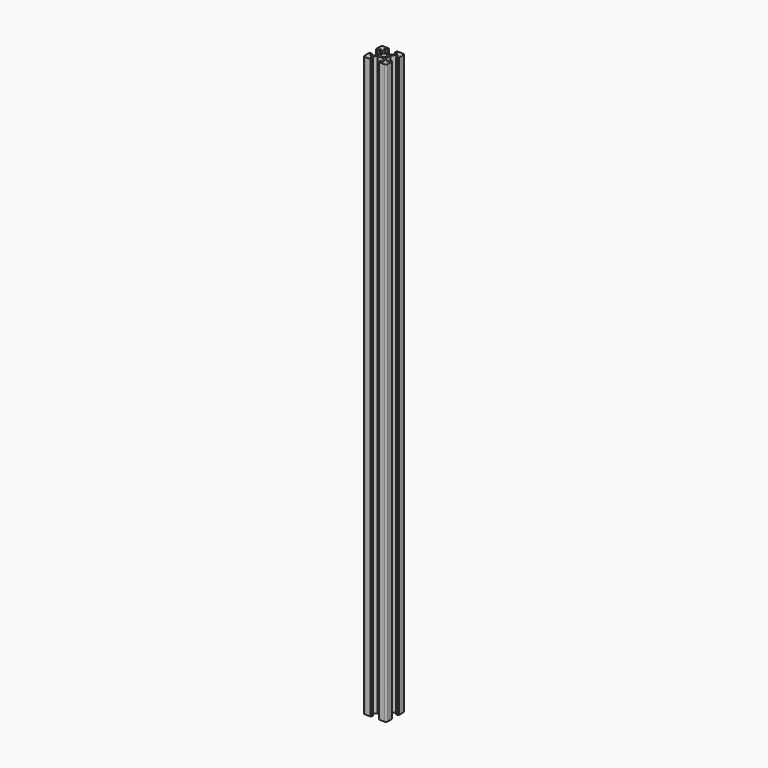
from build123d import *

# Parameters (mm, degrees)
SKETCH_R  = 2.5
PAD_DEPTH = 500
FILLET_R  = 1.5


with BuildPart() as part:
    # Sketch → Pad (new body)
    with BuildSketch(Plane.XY):
        Polygon((-3.6, 2.53934), (-3.6, -2.53934), (-6.56066, -5.5), (-7.9, -5.5), (-7.9, -3.1), (-9.5, -3.1), (-10, -3.6), (-10, -10), (-3.6, -10), (-3.1, -9.5), (-3.1, -7.9), (-5.5, -7.9), (-5.5, -6.56066), (-2.53934, -3.6), (2.53934, -3.6), (5.5, -6.56066), (5.5, -7.9), (3.1, -7.9), (3.1, -9.5), (3.6, -10), (10, -10), (10, -3.6), (9.5, -3.1), (7.9, -3.1), (7.9, -5.5), (6.56066, -5.5), (3.6, -2.53934), (3.6, 2.53934), (6.56066, 5.5), (7.899992, 5.5), (7.899998, 3.1), (9.5, 3.1), (10, 3.6), (10, 10), (3.6, 10), (3.1, 9.5), (3.1, 7.9), (5.5, 7.9), (5.5, 6.56066), (2.53934, 3.6), (-2.53934, 3.6), (-5.5, 6.56066), (-5.5, 7.9), (-3.1, 7.9), (-3.1, 9.5), (-3.6, 10), (-10, 10), (-10, 3.6), (-9.5, 3.1), (-7.9, 3.1), (-7.9, 5.5), (-6.56066, 5.5), align=None)
        Circle(SKETCH_R, mode=Mode.SUBTRACT)
    extrude(amount=PAD_DEPTH)

    # Fillet
    fillet_edges = [part.edges().sort_by_distance(p)[0] for p in [
        (-10, -10, 250),
        (10, -10, 250),
        (10, 10, 250),
        (-10, 10, 250),
    ]]
    fillet(fillet_edges, radius=FILLET_R)


solid = part.part
